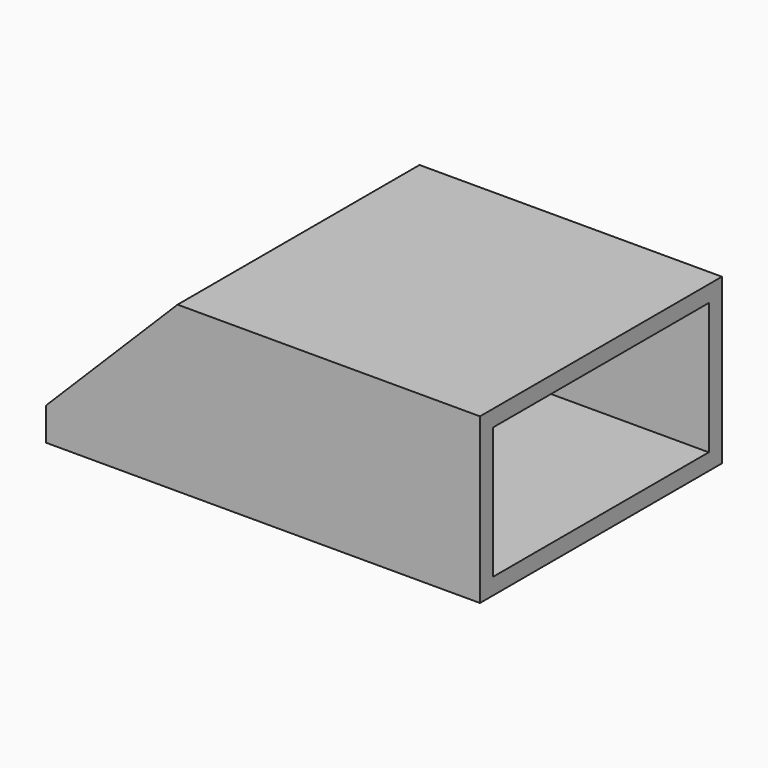
from build123d import *

# Parameters (mm, degrees)
F0_W     = 66
F0_H     = 46
F1_DEPTH = 25
F2_SIZE  = 20
F3_T     = -2.5
F4_W     = 10.88829
F4_H     = 42.176487
F5_DEPTH = 4.1


with BuildPart() as f1:
    # F0 (on Top) → F1 (new body)
    with BuildSketch(Plane.XY):
        with Locations((33, 0)):
            Rectangle(F0_W, F0_H)
    extrude(amount=F1_DEPTH)

    # F2
    f2_edges = [f1.edges().sort_by_distance(p)[0] for p in [
        (0, 0, 25),
    ]]
    chamfer(f2_edges, length=F2_SIZE)

    # F3
    f3_openings = [f1.faces().sort_by_distance(p)[0] for p in [
        (66, 0, 12.5),
    ]]
    offset(amount=F3_T, openings=f3_openings)

    # F4 (on face) → F5 (cut)
    with BuildSketch(Plane(origin=(0, 0, 0), x_dir=(1, 0, 0), z_dir=(0, 0, -1))):
        with Locations((7.093375, -0.062578)):
            Rectangle(F4_W, F4_H)
    extrude(amount=-F5_DEPTH, mode=Mode.SUBTRACT)


solid = f1.part
